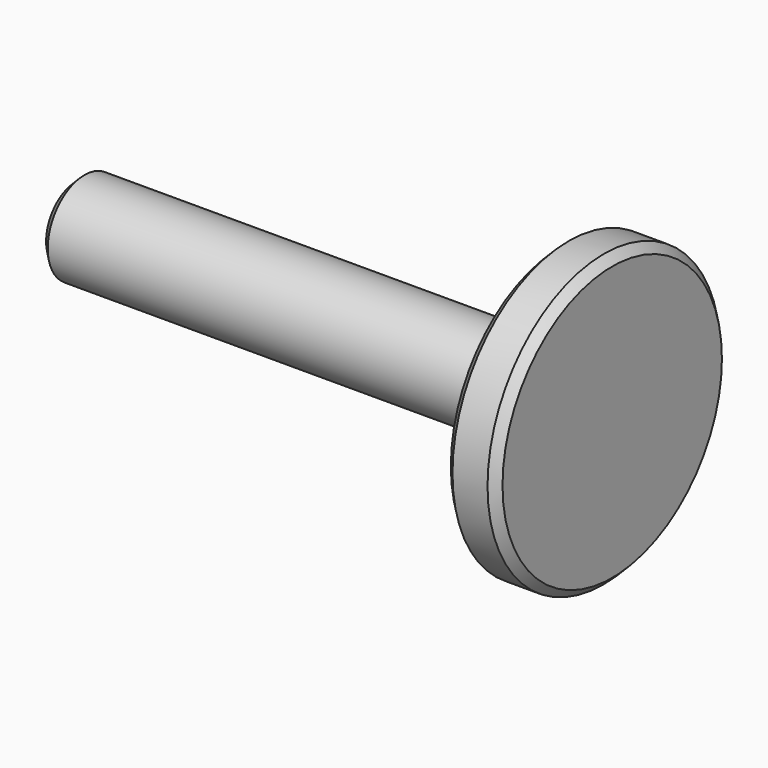
from build123d import *

# Parameters (mm, degrees)
F0_R     = 88.786402
F1_DEPTH = 31.552652
F2_R     = 28.067948
F3_DEPTH = 295.643002
F4_SIZE  = 5.08
F5_SIZE  = 5.08


with BuildPart() as f1:
    # F0 (on Right) → F1 (new body)
    with BuildSketch(Plane.YZ):
        Circle(F0_R)
    extrude(amount=F1_DEPTH)

    # F2 (on face) → F3 (join)
    with BuildSketch(Plane(origin=(0, 0, 0), x_dir=(0, -1, 0), z_dir=(-1, 0, 0))):
        Circle(F2_R)
    extrude(amount=F3_DEPTH)

    # F4
    f4_edges = [f1.edges().sort_by_distance(p)[0] for p in [
        (-147.821501, -28.067948, 0),
        (0, 28.067948, 0),
        (-295.643002, 28.067948, 0),
    ]]
    chamfer(f4_edges, length=F4_SIZE)

    # F5
    f5_edges = [f1.edges().sort_by_distance(p)[0] for p in [
        (31.552652, -88.786402, 0),
        (0, -88.786402, 0),
    ]]
    chamfer(f5_edges, length=F5_SIZE)


solid = f1.part
